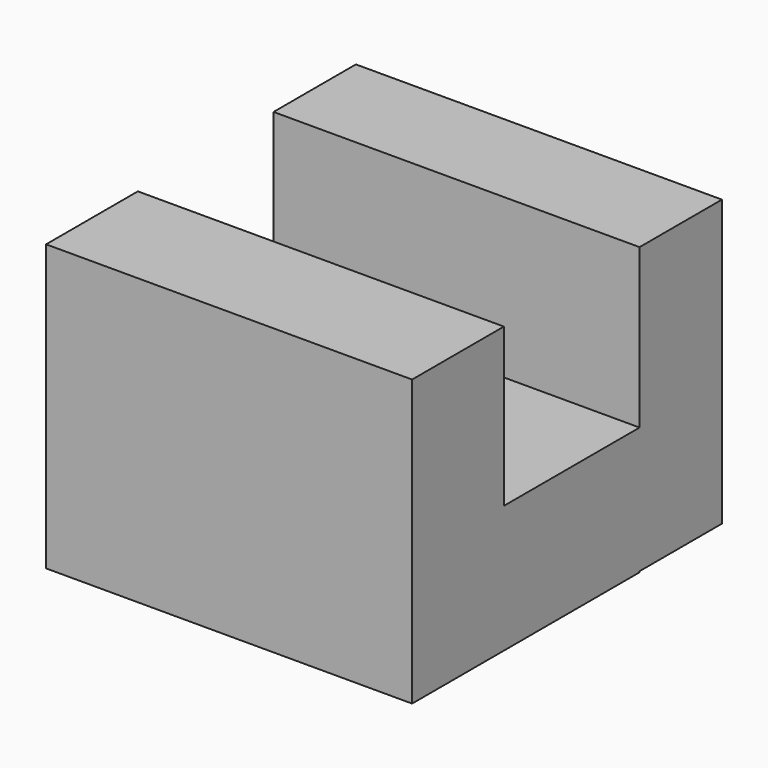
from build123d import *

# Parameters (mm, degrees)
F1_DEPTH = 101.6


with BuildPart() as f1:
    # F0 (on Right) → F1 (new body)
    with BuildSketch(Plane.YZ):
        Polygon((55.517145, -35.106432), (55.517145, 44.087142), (26.942141, 44.087142), (26.942141, 0), (26.942141, -35.106432), align=None)
        Polygon((26.942141, -35.106432), (26.942141, 0), (-20.138571, 0), (-20.138571, -35.378575), (26.942141, -35.378575), align=None)
        Polygon((-20.138571, -35.378575), (-20.138571, 0), (-20.138571, 43.815002), (-51.979288, 43.815002), (-51.979288, -35.378575), align=None)
    extrude(amount=F1_DEPTH)


solid = f1.part
